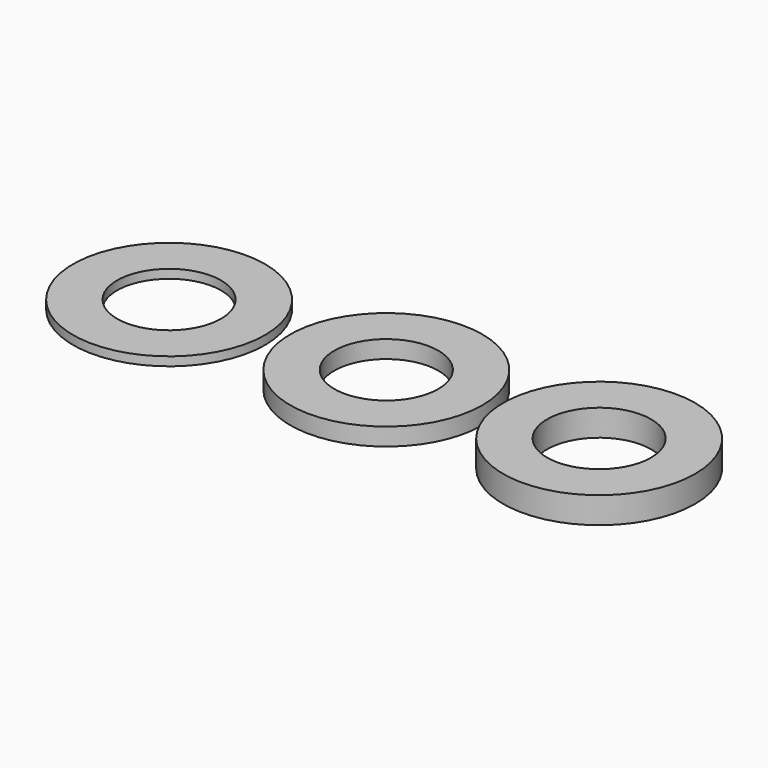
from build123d import *

# Parameters (mm, degrees)
F0_R     = 10.9
F0_R_2   = 5.9
F1_DEPTH = 1
F2_DEPTH = 2
F3_DEPTH = 3


with BuildPart() as f1:
    # F0 (on Top) → F1 (new body)
    with BuildSketch(Plane.XY):
        with Locations((-85.837334, 0)):
            Circle(F0_R)
        with Locations((-85.837334, 0)):
            Circle(F0_R_2, mode=Mode.SUBTRACT)
    extrude(amount=F1_DEPTH)


with BuildPart() as f2:
    # F0 (on Top) → F2 (new body)
    with BuildSketch(Plane.XY):
        with Locations((-61.180785, 0)):
            Circle(F0_R)
        with Locations((-61.180785, 0)):
            Circle(F0_R_2, mode=Mode.SUBTRACT)
    extrude(amount=F2_DEPTH)


with BuildPart() as f3:
    # F0 (on Top) → F3 (new body)
    with BuildSketch(Plane.XY):
        with Locations((-37.02743, 0)):
            Circle(F0_R)
        with Locations((-37.02743, 0)):
            Circle(F0_R_2, mode=Mode.SUBTRACT)
    extrude(amount=F3_DEPTH)


solid = Compound([f1.part, f2.part, f3.part])
